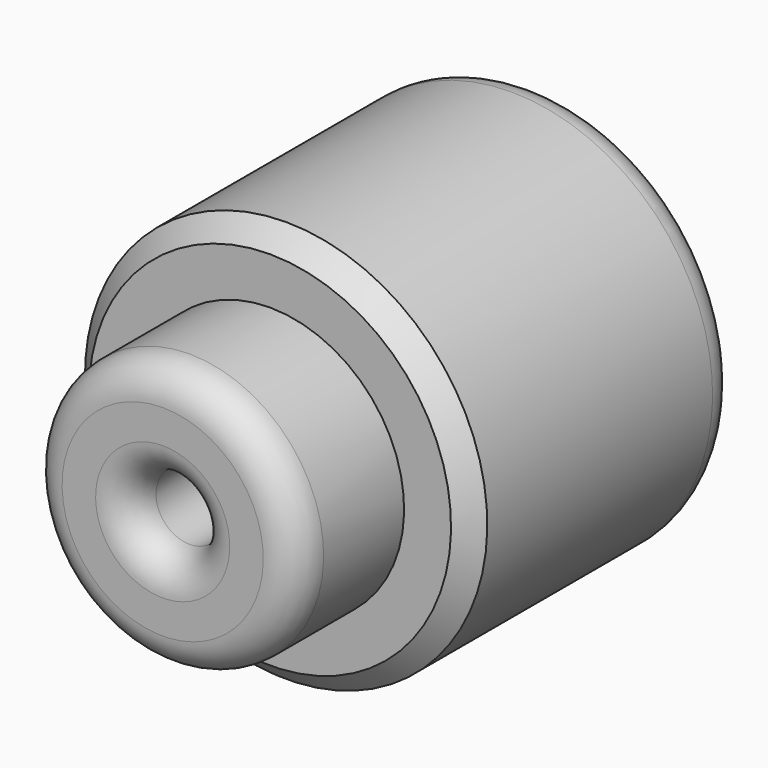
from build123d import *

# Parameters (mm, degrees)
F0_W    = 20
F0_H    = 15
F0_W_2  = 42.9629645813
F2_SIZE = 3
F3_R    = 5


with BuildPart() as f1:
    # F0 (on Right) → F1 (revolve)
    with BuildSketch(Plane.YZ):
        with Locations((-60, 12.5)):
            Rectangle(F0_W, F0_H)
        Polygon((0, 30), (-50, 30), (-50, 20), (-7.0370354187, 20), (-7.0370354187, 5), (-50, 5), (-50, 0), (0, 0), align=None)
        with Locations((-28.5185177093, 12.5)):
            Rectangle(F0_W_2, F0_H)
    revolve(axis=Axis((0, -25, 0), (0, 1, 0)))

    # F2
    f2_edges = [f1.edges().sort_by_distance(p)[0] for p in [
        (0, -50, -30),
    ]]
    chamfer(f2_edges, length=F2_SIZE)

    # F3
    f3_edges = [f1.edges().sort_by_distance(p)[0] for p in [
        (0, -70, -20),
        (0, -70, -5),
        (0, 0, -30),
    ]]
    fillet(f3_edges, radius=F3_R)


solid = f1.part
